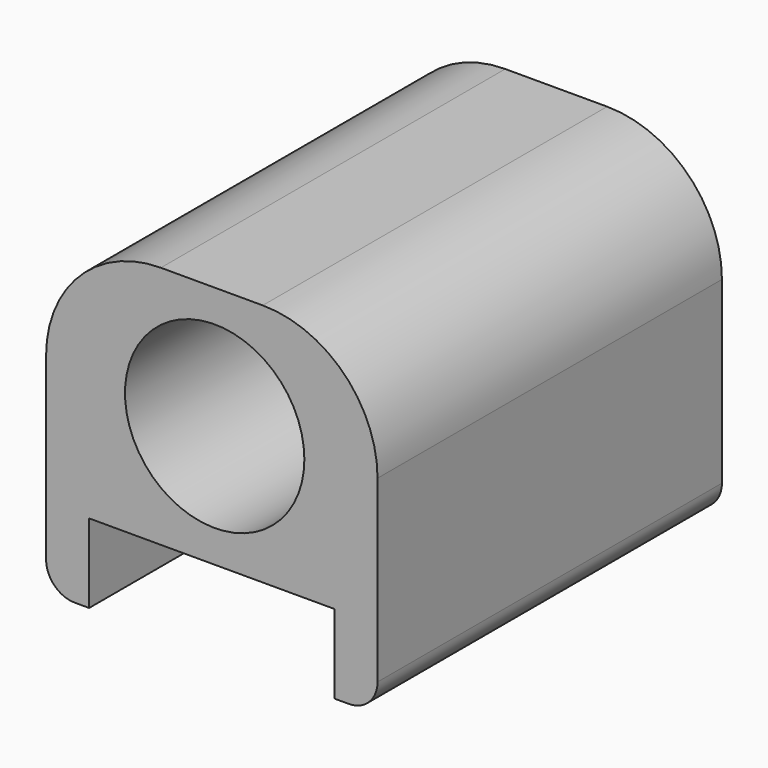
from build123d import *

# Parameters (mm, degrees)
F0_R     = 6.25
F1_DEPTH = 30


with BuildPart() as f1:
    # F0 (on Front) → F1 (new body)
    with BuildSketch(Plane.XZ):
        with BuildLine():
            Line((-4.159335, 17), (-11.259335, 17))
            ThreePointArc((-11.259335, 17), (-16.916189, 14.656854), (-19.259335, 9))
            Line((-19.259335, 9), (-19.259335, 0))
            Line((-19.259335, 0), (-16.259335, 0))
            Line((-16.259335, 0), (0.840665, 0))
            Line((0.840665, 0), (3.840665, 0))
            Line((3.840665, 0), (3.840665, 9))
            ThreePointArc((3.840665, 9), (1.497519, 14.656854), (-4.159335, 17))
        make_face()
        with Locations((-7.509335, 8.5)):
            Circle(F0_R, mode=Mode.SUBTRACT)
        with BuildLine():
            Line((-16.259335, 0), (-19.259335, 0))
            Line((-19.259335, 0), (-19.259335, -3.5))
            ThreePointArc((-19.259335, -3.5), (-18.673548, -4.914214), (-17.259335, -5.5))
            Line((-17.259335, -5.5), (-16.259335, -5.5))
            Line((-16.259335, -5.5), (-16.259335, 0))
        make_face()
        with BuildLine():
            Line((3.840665, -3.5), (3.840665, 0))
            Line((3.840665, 0), (0.840665, 0))
            Line((0.840665, 0), (0.840665, -5.5))
            Line((0.840665, -5.5), (1.840665, -5.5))
            ThreePointArc((1.840665, -5.5), (3.254879, -4.914214), (3.840665, -3.5))
        make_face()
        with BuildLine():
            Line((-4.159335, 17), (-11.259335, 17))
            ThreePointArc((-11.259335, 17), (-16.916189, 14.656854), (-19.259335, 9))
            Line((-19.259335, 9), (-19.259335, 0))
            Line((-19.259335, 0), (-16.259335, 0))
            Line((-16.259335, 0), (0.840665, 0))
            Line((0.840665, 0), (3.840665, 0))
            Line((3.840665, 0), (3.840665, 9))
            ThreePointArc((3.840665, 9), (1.497519, 14.656854), (-4.159335, 17))
        make_face()
        with Locations((-7.509335, 8.5)):
            Circle(F0_R, mode=Mode.SUBTRACT)
    extrude(amount=F1_DEPTH)


solid = f1.part
